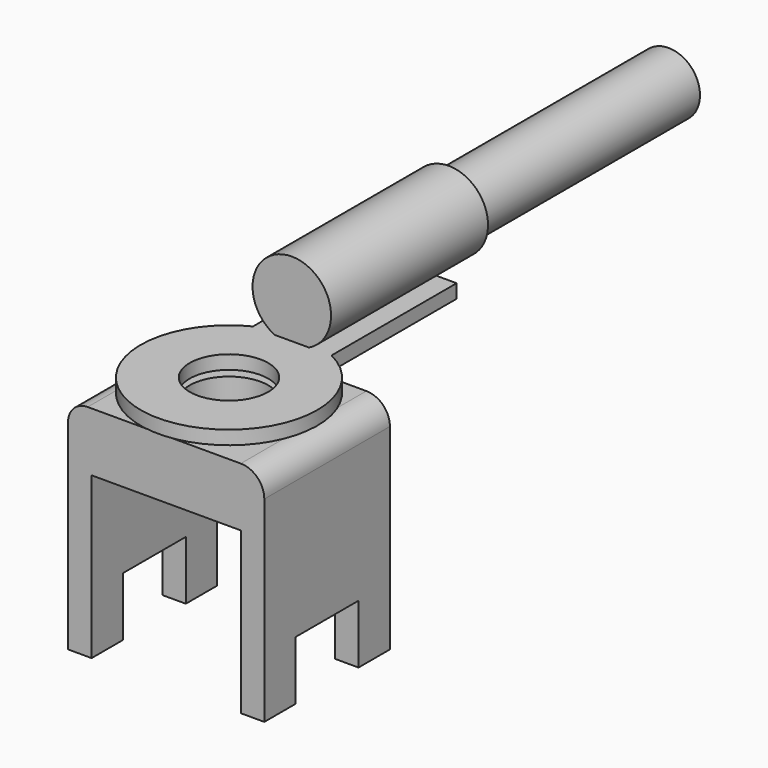
from build123d import *

# Parameters (mm, degrees)
PAD_DEPTH         = 4
SKETCH001_W       = 4
SKETCH001_H       = 3
POCKET_DEPTH      = 5.001
POCKET_DEPTH_BACK = 5.001
SKETCH002_R       = 2
POCKET001_DEPTH   = 11.201
SKETCH003_R       = 2
PAD001_DEPTH      = 0.7
CYLINDER_R        = 2
CYLINDER_DEPTH    = 10
CYLINDER001_R     = 1.6
CYLINDER001_DEPTH = 20


with BuildPart() as body:
    # Sketch → Pad (new body, symmetric)
    with BuildSketch(Plane.XZ):
        with BuildLine():
            Line((5, 0), (5, 10))
            ThreePointArc((5, 10), (4.648528, 10.848528), (3.8, 11.2))
            Line((3.8, 11.2), (-4, 11.2))
            ThreePointArc((-4, 11.2), (-4.707107, 10.907107), (-5, 10.2))
            Line((-5, 10.2), (-5, 0))
            Line((-5, 0), (-3.8, 0))
            Line((-3.8, 8.2), (-3.8, 0))
            Line((3.8, 8.2), (-3.8, 8.2))
            Line((3.8, 0), (3.8, 8.2))
            Line((3.8, 0), (5, 0))
        make_face()
    extrude(amount=PAD_DEPTH, both=True)

    # Sketch001 → Pocket (cut, two sides)
    with BuildSketch(Plane.YZ) as pocket_sk:
        with Locations((0, 1.5)):
            Rectangle(SKETCH001_W, SKETCH001_H)
    extrude(amount=-POCKET_DEPTH, mode=Mode.SUBTRACT)
    extrude(pocket_sk.sketch, amount=POCKET_DEPTH_BACK, mode=Mode.SUBTRACT)

    # Sketch002 (on Face20 of Pocket) → Pocket001 (cut, through all)
    with BuildSketch(Plane(origin=(0, 0, 0), x_dir=(1, 0, 0), z_dir=(0, 0, -1))):
        Circle(SKETCH002_R)
    extrude(amount=-POCKET001_DEPTH, mode=Mode.SUBTRACT)


with BuildPart() as lug:
    # Sketch003 → Pad001 (new body)
    with BuildSketch(Plane.XY):
        with BuildLine():
            ThreePointArc((-2, 4.031129), (0, -4.5), (2, 4.031129))
            Line((2, 12), (2, 4.031129))
            Line((-2, 12), (2, 12))
            Line((-2, 4.031129), (-2, 12))
        make_face()
        Circle(SKETCH003_R, mode=Mode.SUBTRACT)
    extrude(amount=PAD001_DEPTH)

    # Cylinder → Cylinder (join)
    with BuildSketch(Plane(origin=(0, 4, 2.5), x_dir=(-1, 0, 0), z_dir=(0, 1, 0))):
        Circle(CYLINDER_R)
    extrude(amount=CYLINDER_DEPTH)


with BuildPart() as lug_1:
    # Body001 placement: moved
    add(lug.part.moved(Location((0, 0, 11.5))))


with BuildPart() as wire:
    # Cylinder001 → Cylinder001 (join)
    with BuildSketch(Plane(origin=(0, 0, 0), x_dir=(-1, 0, 0), z_dir=(0, 1, 0))):
        Circle(CYLINDER001_R)
    extrude(amount=CYLINDER001_DEPTH)


with BuildPart() as wire_1:
    # Body002 placement: moved
    add(wire.part.moved(Location((0, 8, 14))))


solid = Compound([body.part, lug_1.part, wire_1.part])
